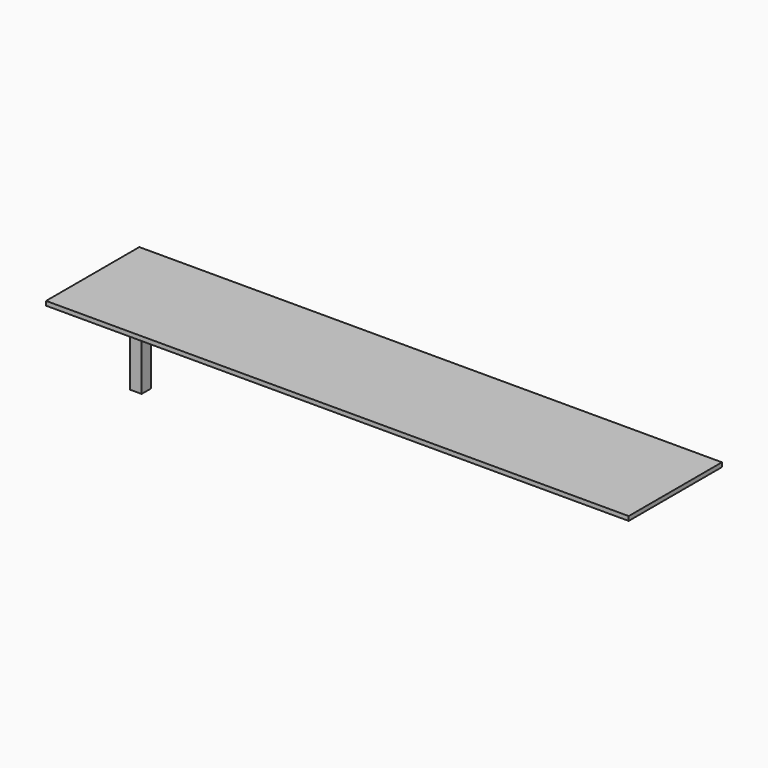
from build123d import *

# Parameters (mm, degrees)
F0_W     = 3000
F0_H     = 600
F1_DEPTH = 22
F2_W     = 60
F2_H     = 60
F3_DEPTH = 600


with BuildPart() as f1:
    # F0 (on Top) → F1 (new body)
    with BuildSketch(Plane.XY):
        with Locations((1381.384343, 272.097149)):
            Rectangle(F0_W, F0_H)
        with Locations((1381.384343, 272.097149)):
            Rectangle(F0_W, F0_H)
    extrude(amount=F1_DEPTH)

    # F2 (on face) → F3 (join)
    with BuildSketch(Plane(origin=(0, 0, 0), x_dir=(1, 0, 0), z_dir=(0, 0, -1))):
        with Locations((-88.615657, -542.097149)):
            Rectangle(F2_W, F2_H)
    extrude(amount=F3_DEPTH)


solid = f1.part
